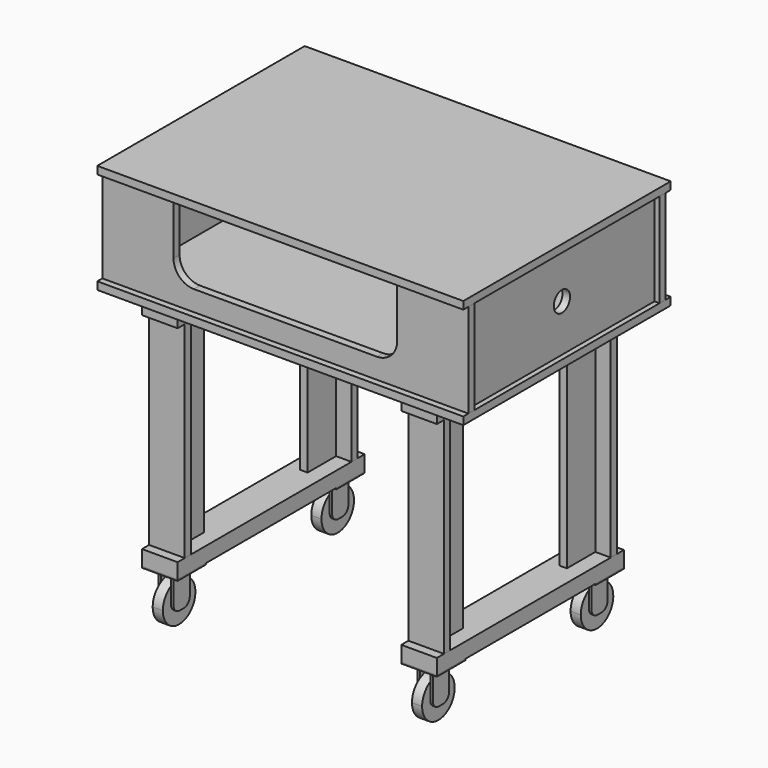
from build123d import *

# Parameters (mm, degrees)
F0_W      = 647.7
F0_H      = 19.05
F1_DEPTH  = 914.4
F2_W      = 88.9
F2_H      = 584.2
F3_DEPTH  = 38.1
F4_W      = 19.05
F4_H      = 514.35
F5_DEPTH  = 88.9
F6_W      = 19.05
F6_H      = 88.9
F7_DEPTH  = 514.35
F26_DEPTH = 19.05
F30_W     = 577.85
F30_H     = 234.95
F30_R     = 25.4
F31_DEPTH = 19.05
F34_W     = 88.9
F34_H     = 88.9
F35_DEPTH = 3.175
F37_DEPTH = 25.4
F40_DEPTH = 6.35


with BuildPart() as f1:
    # F0 (on Right) → F1 (new body)
    with BuildSketch(Plane.YZ):
        with Locations((323.85, 9.525)):
            Rectangle(F0_W, F0_H)
    extrude(amount=-F1_DEPTH)


with BuildPart() as f3:
    # F2 (on Top) → F3 (new body)
    with BuildSketch(Plane.XY):
        with Locations((-44.45, 292.1)):
            Rectangle(F2_W, F2_H)
    extrude(amount=-F3_DEPTH)


with BuildPart() as f5:
    # F4 (on face) → F5 (new body)
    with BuildSketch(Plane.YZ):
        with Locations((60.325, -295.275)):
            Rectangle(F4_W, F4_H)
    extrude(amount=-F5_DEPTH)


with BuildPart() as f7:
    # F6 (on face) → F7 (new body)
    with BuildSketch(Plane.XY.offset(-38.1)):
        with Locations((-47.9563894928, 114.3)):
            Rectangle(F6_W, F6_H)
    extrude(amount=-F7_DEPTH)


with BuildPart() as f8_1:
    # F8: copy of F5
    add(f5.part.moved(Location((0, 520.7, 0))))


with BuildPart() as f9_1:
    # F9: copy of F7
    add(f7.part.moved(Location((0, 412.75, 0))))


with BuildPart() as f10_1:
    # F10: copy of F3
    add(f3.part.moved(Location((-647.7, 0, 0))))


with BuildPart() as f11_1:
    # F11: copy of F5
    add(f5.part.moved(Location((-647.7, 0, 0))))


with BuildPart() as f12_1:
    # F12: copy of F8_1
    add(f8_1.part.moved(Location((-647.7, 0, 0))))


with BuildPart() as f13_1:
    # F13: copy of F9_1
    add(f9_1.part.moved(Location((-647.7, 0, 0))))


with BuildPart() as f14_1:
    # F14: copy of F7
    add(f7.part.moved(Location((-647.7, 0, 0))))


with BuildPart() as f1_1:
    # F15: moved
    add(f1.part.moved(Location((88.9, 0, 0))))


with BuildPart() as f3_1:
    # F16: moved
    add(f3.part.moved(Location((0, 28.575, 0))))


with BuildPart() as f10_1_1:
    # F17: moved
    add(f10_1.part.moved(Location((0, 28.575, 0))))


with BuildPart() as f18_1:
    # F18: copy of F3
    add(f3_1.part.moved(Location((0, 0, -673.1))))


with BuildPart() as f19_1:
    # F19: copy of F10_1
    add(f10_1_1.part.moved(Location((0, 0, -673.1))))


with BuildPart() as f22_1:
    # F22: copy of F3
    add(f3_1.part.moved(Location((0, 0, -552.45))))


with BuildPart() as f23_1:
    # F23: copy of F10_1
    add(f10_1_1.part.moved(Location((0, 0, -552.45))))


with BuildPart() as f24_1:
    # F24: copy of F1
    add(f1_1.part.moved(Location((0, 0, 254))))


with BuildPart() as f26:
    # F25 (on Front) → F26 (new body)
    with BuildSketch(Plane.XZ):
        with BuildLine():
            Line((-914.4, 0), (0, 0))
            Line((0, 0), (0, 234.95))
            Line((0, 234.95), (-177.8, 234.95))
            Line((-177.8, 234.95), (-177.8, 101.6))
            ThreePointArc((-177.8, 101.6), (-192.6789755157, 65.6789755157), (-228.6, 50.8))
            Line((-228.6, 50.8), (-685.8, 50.8))
            ThreePointArc((-685.8, 50.8), (-721.7210244843, 65.6789755157), (-736.6, 101.6))
            Line((-736.6, 101.6), (-736.6, 234.95))
            Line((-736.6, 234.95), (-914.4, 234.95))
            Line((-914.4, 234.95), (-914.4, 0))
        make_face()
    extrude(amount=-F26_DEPTH)


with BuildPart() as f26_1:
    # F27: moved
    add(f26.part.moved(Location((0, 0, 19.05))))


with BuildPart() as f26_2:
    # F28: moved
    add(f26_1.part.moved(Location((88.9, 15.875, 0))))


with BuildPart() as f29_1:
    # F29: copy of F26
    add(f26_2.part.moved(Location((0, 596.9, 0))))


with BuildPart() as f31:
    # F30 (on face) → F31 (new body)
    with BuildSketch(Plane(origin=(-825.5, 0, 0), x_dir=(0, -1, 0), z_dir=(-1, 0, 0))):
        with Locations((-323.85, 136.525)):
            Rectangle(F30_W, F30_H)
        with Locations((-323.85, 136.525)):
            Circle(F30_R, mode=Mode.SUBTRACT)
    extrude(amount=-F31_DEPTH)


with BuildPart() as f31_1:
    # F32: moved
    add(f31.part.moved(Location((12.7, 0, 0))))


with BuildPart() as f33_1:
    # F33: copy of F31
    add(f31_1.part.moved(Location((869.95, 0, 0))))


with BuildPart() as f35:
    # F34 (on face) → F35 (new body)
    with BuildSketch(Plane(origin=(0, 0, -590.55), x_dir=(1, 0, 0), z_dir=(0, 0, -1))):
        with Locations((-692.15, -73.025)):
            Rectangle(F34_W, F34_H)
    extrude(amount=F35_DEPTH)


with BuildPart() as f37:
    # F36 (on face) → F37 (new body)
    with BuildSketch(Plane(origin=(-736.6, 0, 0), x_dir=(0, -1, 0), z_dir=(-1, 0, 0))):
        with BuildLine():
            ThreePointArc((-22.225, -666.75), (-37.1039755157, -630.8289755157), (-73.025, -615.95))
            ThreePointArc((-73.025, -615.95), (-108.9460244843, -702.6710244843), (-22.225, -666.75))
        make_face()
    extrude(amount=-F37_DEPTH)


with BuildPart() as f37_1:
    # F38: moved
    add(f37.part.moved(Location((31.75, 0, 0))))


with BuildPart() as f40:
    # F39 (on face) → F40 (new body)
    with BuildSketch(Plane(origin=(-736.6, 0, 0), x_dir=(0, -1, 0), z_dir=(-1, 0, 0))):
        with BuildLine():
            Line((-66.675, -593.725), (-117.475, -593.725))
            Line((-117.475, -593.725), (-117.475, -663.575))
            ThreePointArc((-117.475, -663.575), (-111.8953841816, -677.0453841816), (-98.425, -682.625))
            Line((-98.425, -682.625), (-85.725, -682.625))
            ThreePointArc((-85.725, -682.625), (-72.2546158184, -677.0453841816), (-66.675, -663.575))
            Line((-66.675, -663.575), (-66.675, -593.725))
        make_face()
    extrude(amount=-F40_DEPTH)


with BuildPart() as f40_1:
    # F41: moved
    add(f40.part.moved(Location((25.4, 0, 0))))


with BuildPart() as f42_1:
    # F42: copy of F40
    add(f40_1.part.moved(Location((31.75, -19.05, 0))))


with BuildPart() as f40_2:
    # F43: moved
    add(f40_1.part.moved(Location((0, -19.05, 0))))


with BuildPart() as f44_1:
    # F44: copy of F35
    add(f35.part.moved(Location((647.7, 0, 0))))


with BuildPart() as f45_1:
    # F45: copy of F37
    add(f37_1.part.moved(Location((647.7, 0, 0))))


with BuildPart() as f45_2:
    # F45: copy of F40
    add(f40_2.part.moved(Location((647.7, 0, 0))))


with BuildPart() as f45_3:
    # F45: copy of F42_1
    add(f42_1.part.moved(Location((647.7, 0, 0))))


with BuildPart() as f46_1:
    # F46: copy of F35
    add(f35.part.moved(Location((0, 495.3, 0))))


with BuildPart() as f46_2:
    # F46: copy of F45_2
    add(f45_2.part.moved(Location((0, 495.3, 0))))


with BuildPart() as f46_3:
    # F46: copy of F45_1
    add(f45_1.part.moved(Location((0, 495.3, 0))))


with BuildPart() as f46_4:
    # F46: copy of F40
    add(f40_2.part.moved(Location((0, 495.3, 0))))


with BuildPart() as f46_5:
    # F46: copy of F42_1
    add(f42_1.part.moved(Location((0, 495.3, 0))))


with BuildPart() as f46_6:
    # F46: copy of F37
    add(f37_1.part.moved(Location((0, 495.3, 0))))


with BuildPart() as f46_7:
    # F46: copy of F44_1
    add(f44_1.part.moved(Location((0, 495.3, 0))))


with BuildPart() as f46_8:
    # F46: copy of F45_3
    add(f45_3.part.moved(Location((0, 495.3, 0))))


solid = Compound([f5.part, f7.part, f8_1.part, f9_1.part, f11_1.part, f12_1.part, f13_1.part, f14_1.part, f1_1.part, f3_1.part, f10_1_1.part, f22_1.part, f23_1.part, f24_1.part, f26_2.part, f29_1.part, f31_1.part, f33_1.part, f35.part, f37_1.part, f42_1.part, f40_2.part, f44_1.part, f45_1.part, f45_2.part, f45_3.part, f46_1.part, f46_2.part, f46_3.part, f46_4.part, f46_5.part, f46_6.part, f46_7.part, f46_8.part])
